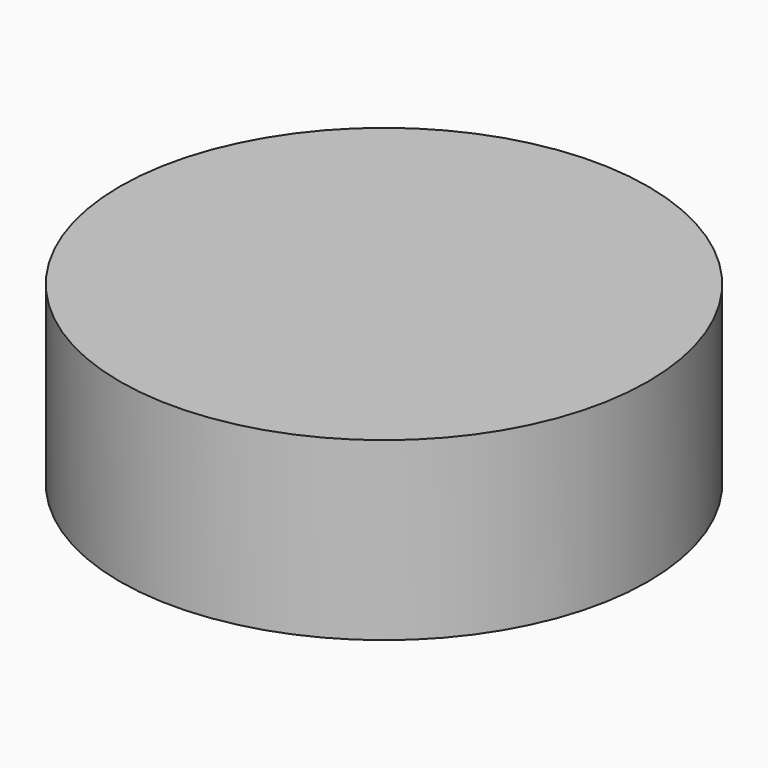
from build123d import *

# Parameters (mm, degrees)
F0_R     = 75
F1_DEPTH = 50
F3_DEPTH = 35.5
F5_R     = 52.9296402023
F6_DEPTH = 16


with BuildPart() as f1:
    # F0 (on Top) → F1 (new body)
    with BuildSketch(Plane.XY):
        Circle(F0_R)
    extrude(amount=F1_DEPTH)

    # F2 (on face) → F3 (cut)
    with BuildSketch(Plane(origin=(0, 0, 0), x_dir=(1, 0, 0), z_dir=(0, 0, -1))):
        with BuildLine():
            ThreePointArc((16, -32.2490309932), (30.5941170816, -18.973665961), (36, 0))
            ThreePointArc((36, 0), (30.5941170816, 18.973665961), (16, 32.2490309932))
            Line((16, 32.2490309932), (16, 28.5))
            Line((16, 28.5), (-16, 28.5))
            Line((-16, 28.5), (-16, 32.2490309932))
            ThreePointArc((-16, 32.2490309932), (-36, 0), (-16, -32.2490309932))
            Line((-16, -32.2490309932), (-16, -28.5))
            Line((-16, -28.5), (16, -28.5))
            Line((16, -28.5), (16, -32.2490309932))
        make_face()
        with BuildLine():
            Line((16, 28.5), (16, 32.2490309932))
            ThreePointArc((16, 32.2490309932), (0, 36), (-16, 32.2490309932))
            Line((-16, 32.2490309932), (-16, 28.5))
            Line((-16, 28.5), (16, 28.5))
        make_face()
        with BuildLine():
            ThreePointArc((-16, 32.2490309932), (0, 36), (16, 32.2490309932))
            Line((16, 32.2490309932), (16, 50))
            Line((16, 50), (-16, 50))
            Line((-16, 50), (-16, 32.2490309932))
        make_face()
        with BuildLine():
            Line((16, -50), (16, -32.2490309932))
            ThreePointArc((16, -32.2490309932), (0, -36), (-16, -32.2490309932))
            Line((-16, -32.2490309932), (-16, -50))
            Line((-16, -50), (16, -50))
        make_face()
        with BuildLine():
            ThreePointArc((-16, -32.2490309932), (0, -36), (16, -32.2490309932))
            Line((16, -32.2490309932), (16, -28.5))
            Line((16, -28.5), (-16, -28.5))
            Line((-16, -28.5), (-16, -32.2490309932))
        make_face()
    extrude(amount=-F3_DEPTH, mode=Mode.SUBTRACT)

    # F5 (on offset) → F6 (cut)
    with BuildSketch(Plane.XY.offset(35.5)):
        Circle(F5_R)
    extrude(amount=-F6_DEPTH, mode=Mode.SUBTRACT)


solid = f1.part
